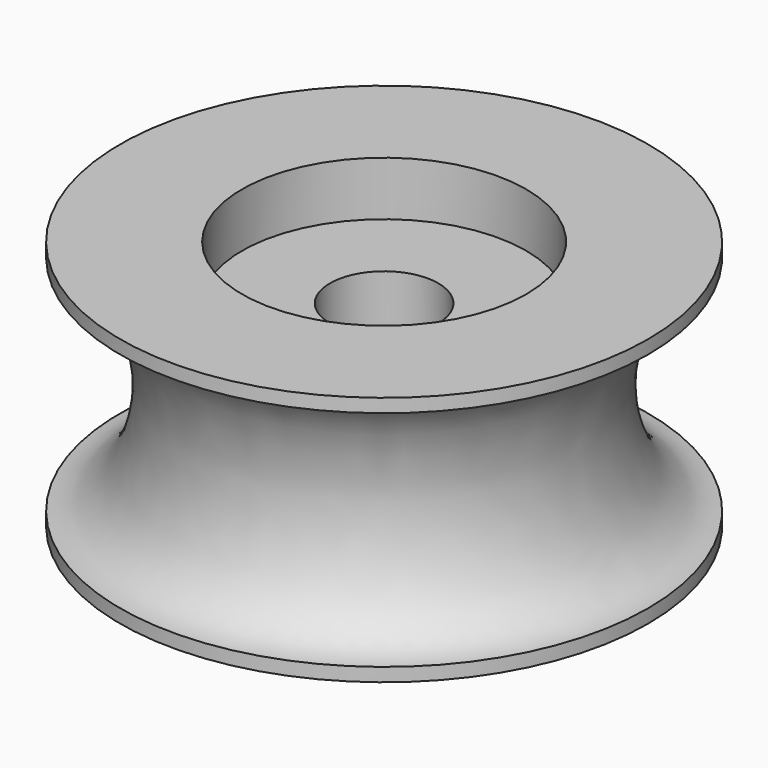
from build123d import *

# Parameters (mm, degrees)
F2_R     = 4
F3_DEPTH = 14.501


with BuildPart() as f1:
    # F0 (on Front) → F1 (revolve)
    with BuildSketch(Plane.XZ):
        with BuildLine():
            Line((19.5, 9.25), (10.5, 9.25))
            Line((10.5, 9.25), (10.5, 5.25))
            Line((10.5, 5.25), (0, 5.25))
            Line((0, 5.25), (0, 0))
            Line((0, 0), (0, -5.25))
            Line((0, -5.25), (10.5, -5.25))
            Line((10.5, -5.25), (10.5, -9.25))
            Line((10.5, -9.25), (19.5, -9.25))
            Line((19.5, -9.25), (19.5, -8.25))
            add(Edge.make_bspline(
                [(19.5, 8.25), (14.5, 8.25), (14.5, 0), (14.5, -8.25), (19.5, -8.25)],
                knots=[0, 0, 0, 1.5707963268, 1.5707963268, 3.1415926536, 3.1415926536, 3.1415926536], degree=2, weights=[1, 0.7071067812, 1, 0.7071067812, 1]))
            Line((19.5, 8.25), (19.5, 9.25))
        make_face()
    revolve(axis=Axis((0, 0, 2.625), (0, 0, 1)))

    # F2 (on face) → F3 (cut, through all)
    with BuildSketch(Plane.XY.offset(5.25)):
        Circle(F2_R)
    extrude(amount=-F3_DEPTH, mode=Mode.SUBTRACT)


solid = f1.part
